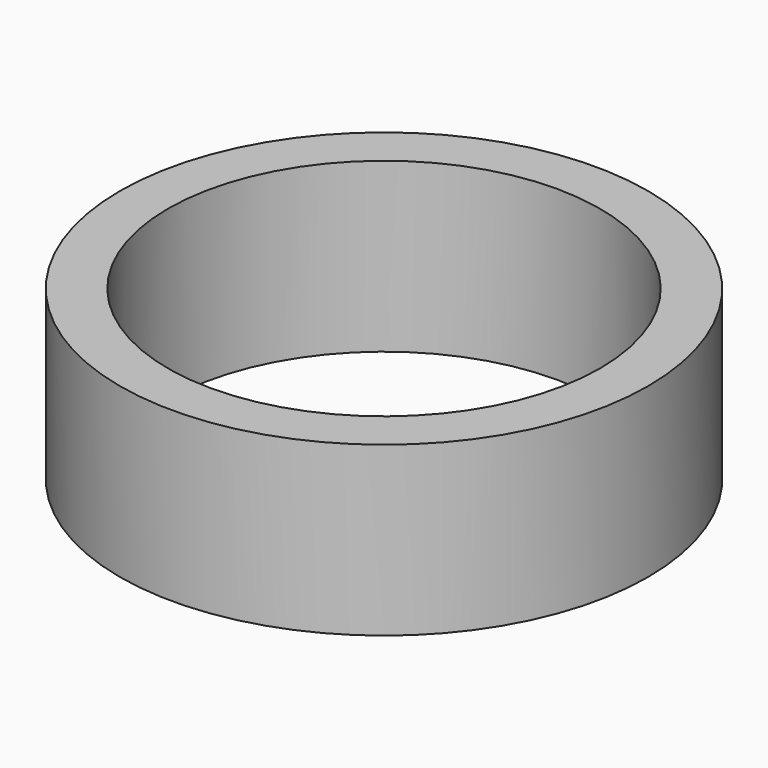
from build123d import *

# Parameters (mm, degrees)
SKETCH_R   = 11
SKETCH_R_2 = 9
PAD_DEPTH  = 7


with BuildPart() as part:
    # Sketch → Pad (new body)
    with BuildSketch(Plane.XY):
        Circle(SKETCH_R)
        Circle(SKETCH_R_2, mode=Mode.SUBTRACT)
    extrude(amount=PAD_DEPTH)


solid = part.part
